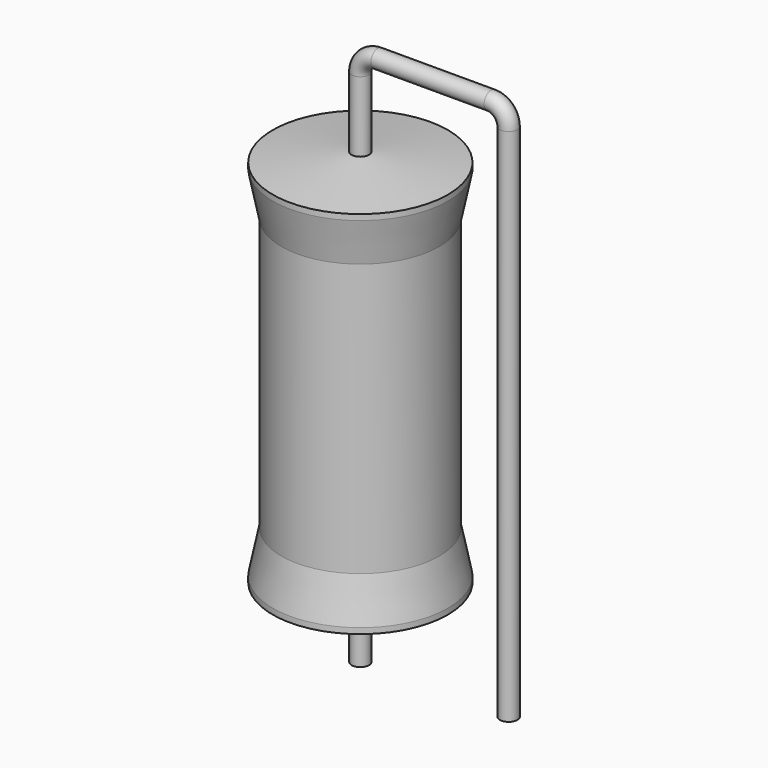
from build123d import *

# Parameters (mm, degrees)
SKETCH_R = 0.45


with BuildPart() as sweep_body:
    # Sweep: sweep along a path in Sketch001
    with BuildLine(Plane.XZ) as sweep_path:
        Line((0, -3), (0, 23.7))
        ThreePointArc((0, 23.7), (0.263609, 24.336401), (0.900013, 24.6))
        Line((0.900013, 24.6), (6.72, 24.6))
        ThreePointArc((6.72, 24.6), (7.356396, 24.336396), (7.62, 23.7))
        Line((7.62, 23.7), (7.62, -3))
    # Sketch → Sweep (sweep)
    with BuildSketch(Plane.XY.offset(-2)):
        Circle(SKETCH_R)
    sweep(path=sweep_path.line)


with BuildPart() as revolution:
    # Sketch002 → Revolution (revolve)
    with BuildSketch(Plane.XZ):
        Polygon((0, 0.1), (0, 20.1), (0.3375, 20.1), (4.5, 19.6), (4.5, 19.3075), (4.05, 17.1), (4.05, 3.1), (4.5, 0.8925), (4.5, 0.6), (0.3375, 0.1), align=None)
    revolve(axis=Axis((0, 0, 0), (0, 0, 1)))


solid = Compound([sweep_body.part, revolution.part])
